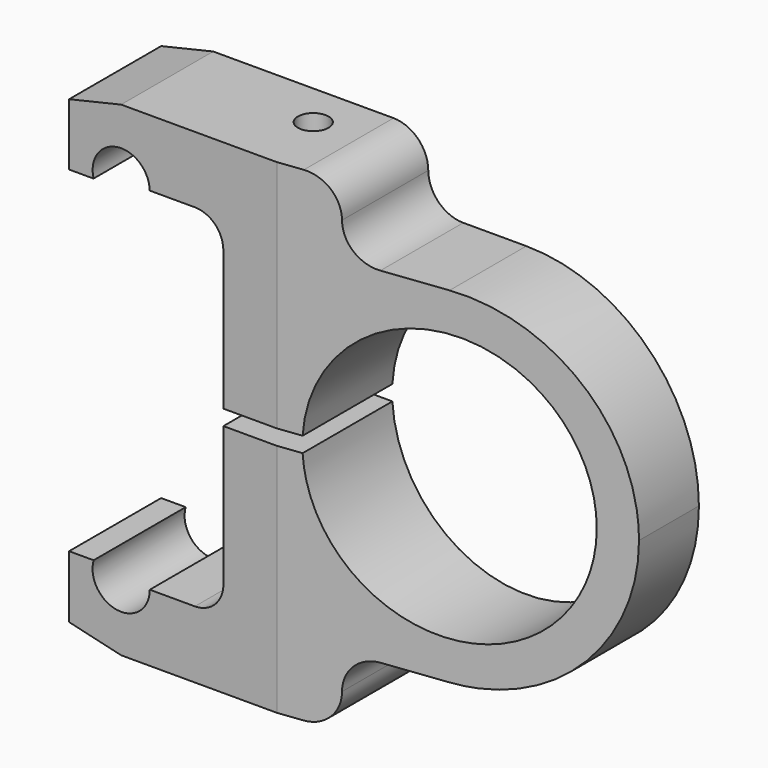
from build123d import *

# Parameters (mm, degrees)
F1_DEPTH       = 9.525
F3_D           = 2.54
F3_CBORE_D     = 6.35
F3_CBORE_DEPTH = 4.7752
F5_DEPTH       = 20.32


with BuildPart() as f1:
    # F0 (on Front) → F1 (new body)
    with BuildSketch(Plane.XZ):
        with BuildLine():
            ThreePointArc((-28.2059340648, 13.9065), (-26.240179578, 16.8438540599), (-23.5585, 14.5415))
            Line((-23.5585, 14.5415), (-19.8247, 14.5415))
            ThreePointArc((-19.8247, 14.5415), (-18.1543723615, 13.8496276385), (-17.4625, 12.1793))
            Line((-17.4625, 12.1793), (-17.4625, 0.6350352715))
            Line((-17.4625, 0.6350352715), (-11.0877819096, 0.6350352715))
            ThreePointArc((-11.0877819096, 0.6350352715), (11.0996948974, 3.52715e-05), (-11.0877819096, -0.6349647285))
            Line((-11.0877819096, -0.6349647285), (-17.4559396015, -0.6349647285))
            Line((-17.4559396015, -0.6349647285), (-17.4559396015, -12.1792647285))
            ThreePointArc((-17.4559396015, -12.1792647285), (-18.147811963, -13.8495923671), (-19.8181396015, -14.5414647285))
            Line((-19.8181396015, -14.5414647285), (-23.5519396015, -14.5414647285))
            ThreePointArc((-23.5519396015, -14.5414647285), (-26.2413382061, -16.9011545192), (-28.1991546105, -13.9065))
            Line((-28.1991546105, -13.9065), (-30.2311546105, -13.9065))
            Line((-30.2311546105, -13.9065), (-30.2311546105, -19.0742111302))
            Line((-30.2311546105, -19.0742111302), (-25.92066586, -20.0914))
            Line((-25.92066586, -20.0914), (-11.0116051104, -20.0914))
            ThreePointArc((-11.0116051104, -20.0914), (-8.9619217104, -19.2410649878), (-8.116123004, -17.1895055269))
            ThreePointArc((-8.116123004, -17.1895055269), (-7.2702919293, -15.137867554), (-5.220530089, -14.2875))
            Line((-5.220530089, -14.2875), (0, -14.2875))
            ThreePointArc((0, -14.2875), (10.1027881362, -10.1027881362), (14.2875, 0))
            ThreePointArc((14.2875, 0), (10.1027881362, 10.1027881362), (0, 14.2875))
            Line((0, 14.2875), (-5.220530089, 14.2875))
            ThreePointArc((-5.220530089, 14.2875), (-7.2612916673, 15.1288868805), (-8.1160675997, 17.1640767507))
            ThreePointArc((-8.1160675997, 17.1640767507), (-8.9646092373, 19.1930542961), (-10.9940030066, 20.0406))
            Line((-10.9940030066, 20.0406), (-25.92066586, 20.0406))
            Line((-25.92066586, 20.0406), (-30.2311546105, 19.0322602705))
            Line((-30.2311546105, 19.0322602705), (-30.2311546105, 13.9065))
            Line((-30.2311546105, 13.9065), (-28.2059340648, 13.9065))
        make_face()
    extrude(amount=F1_DEPTH)

    # F3 (through all)
    with Locations(Plane(origin=(0, 0, -20.0914), x_dir=(1, 0, 0), z_dir=(0, 0, -1))):
        with Locations((-14.6946051104, 3.683)):
            CounterBoreHole(F3_D / 2, F3_CBORE_D / 2, F3_CBORE_DEPTH)

    # F4 (on Top) → F5 (cut, symmetric)
    with BuildSketch(Plane.XY):
        Polygon((14.5003534853, -6.1715153816), (-13.6252772063, -9.5990113914), (14.5003534853, -10.0196320564), align=None)
    extrude(amount=F5_DEPTH, both=True, mode=Mode.SUBTRACT)


solid = f1.part
